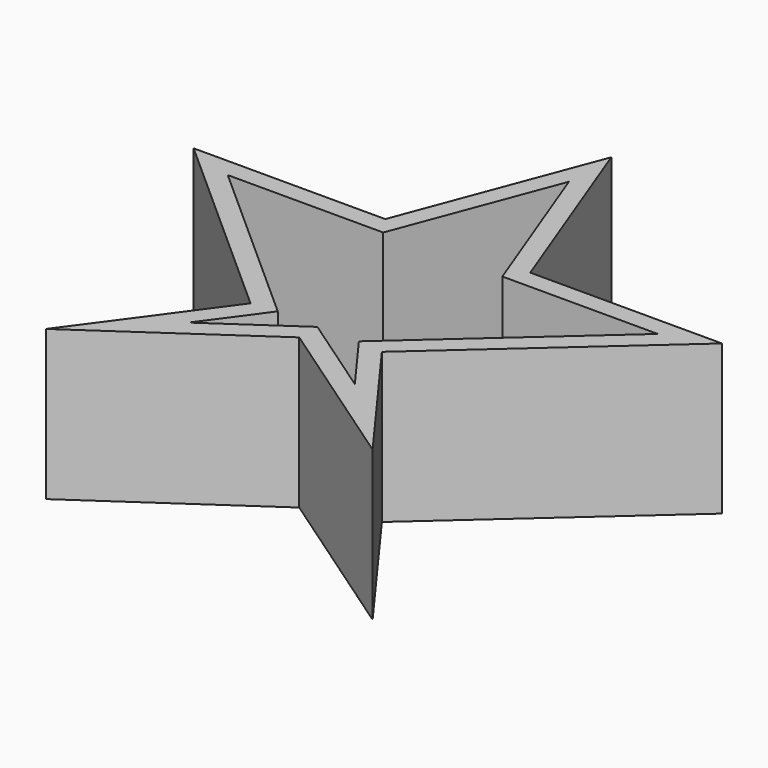
from build123d import *

# Parameters (mm, degrees)
F1_DEPTH = 25.4


with BuildPart() as f1:
    # F0 (on Top) → F1 (new body)
    with BuildSketch(Plane.XY):
        Polygon((-11.13816, -15.454575), (-27.68127, -38.1), (0, -19.05), (27.68127, -38.1), (11.13816, -15.454575), (44.789236, 14.552905), (12.292903, 14.552905), (0, 47.09419), (-12.292903, 14.552905), (-44.789236, 14.552905), align=None)
        Polygon((-36.458193, 11.377905), (-10.098309, 11.377905), (0, 38.109749), (10.098309, 11.377905), (36.458193, 11.377905), (6.875413, -15.001777), (14.111704, -24.907345), (0, -15.195797), (-14.111704, -24.907345), (-6.875413, -15.001777), align=None, mode=Mode.SUBTRACT)
    extrude(amount=F1_DEPTH)


solid = f1.part
